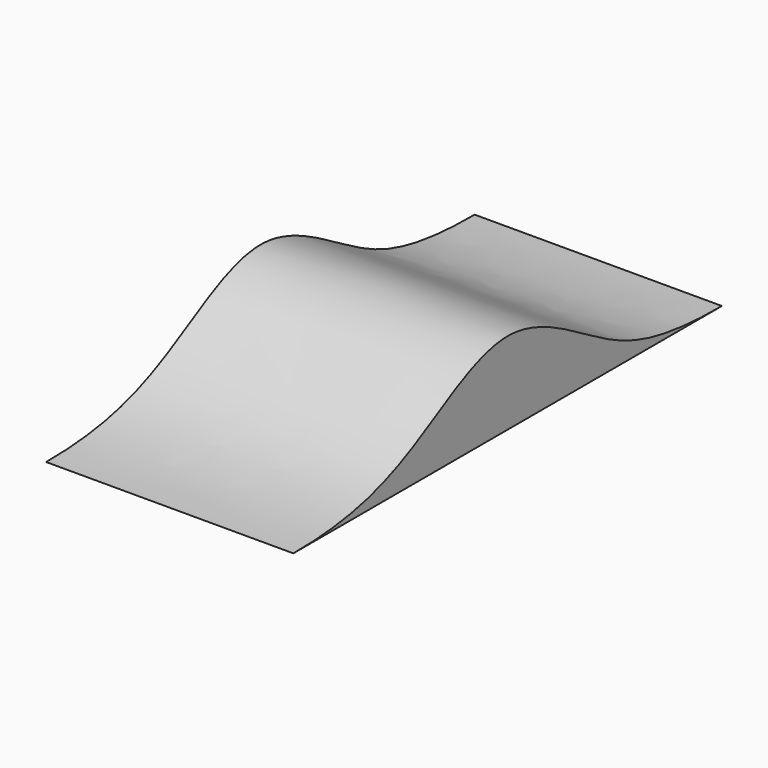
from build123d import *

# Parameters (mm, degrees)
F1_DEPTH = 1828.8


with BuildPart() as f1:
    # F0 (on Right) → F1 (new body)
    with BuildSketch(Plane.YZ):
        with BuildLine():
            Line((-4252.0392081772, -304.8), (-289.6392081772, -304.8))
            add(Edge.make_bspline(
                [(-4252.0392081772, -304.8), (-3644.512025952, -304.8), (-3096.7818480443, -65.4309381445), (-2276.7451201573, 470.2700242475), (-1418.4682004784, -65.4309381445), (-962.5739682962, -304.8), (-289.6392081772, -304.8)],
                knots=[0, 0, 0, 0, 0.2765313387, 0.5, 0.7234686613, 1, 1, 1, 1], degree=3))
        make_face()
    extrude(amount=F1_DEPTH)


solid = f1.part
